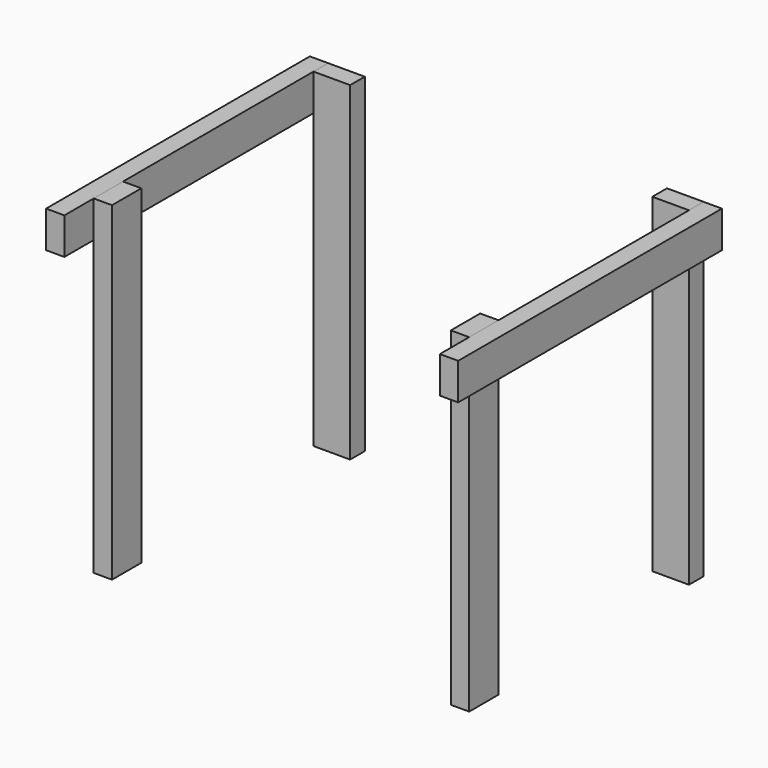
from build123d import *

# Parameters (mm, degrees)
F1_W     = 50.8
F1_H     = 101.6
F2_DEPTH = 914.4
F4_W     = 101.6
F4_H     = 50.8
F4_W_2   = 50.8
F4_H_2   = 101.6
F5_DEPTH = 914.4


with BuildPart() as f2:
    # F1 (on Front) → F2 (new body)
    with BuildSketch(Plane.XZ):
        with Locations((25.4, 863.6)):
            Rectangle(F1_W, F1_H)
        with Locations((1117.6, 863.6)):
            Rectangle(F1_W, F1_H)
    extrude(amount=F2_DEPTH)


with BuildPart() as f5:
    # F4 (on face) → F5 (new body)
    with BuildSketch(Plane.XY.offset(914.4)):
        with Locations((101.6, -25.4)):
            Rectangle(F4_W, F4_H)
        with Locations((1041.4, -25.4)):
            Rectangle(F4_W, F4_H)
        with Locations((76.2, -762)):
            Rectangle(F4_W_2, F4_H_2)
        with Locations((1066.8, -762)):
            Rectangle(F4_W_2, F4_H_2)
    extrude(amount=-F5_DEPTH)


solid = Compound([f2.part, f5.part])
